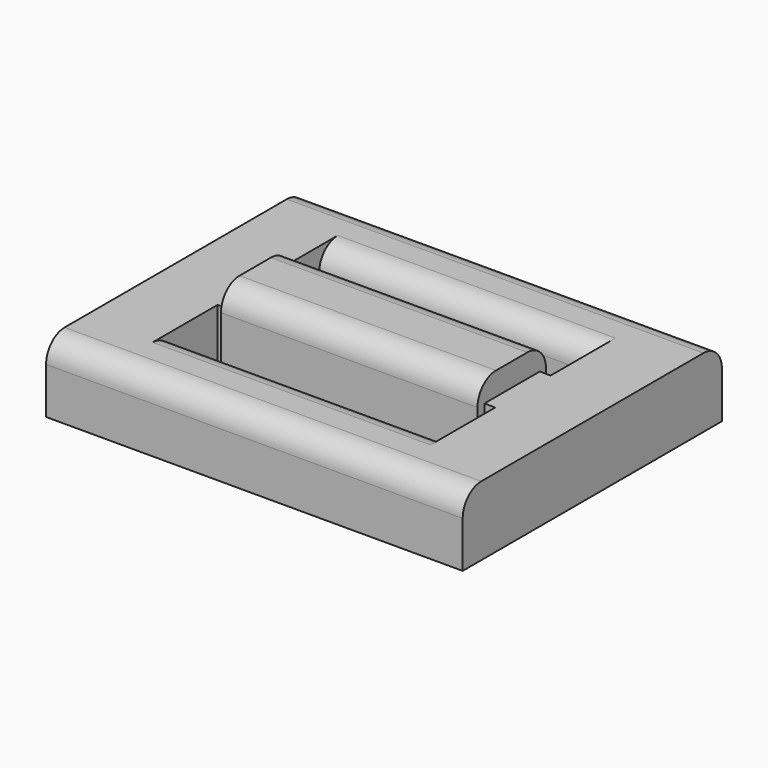
from build123d import *

# Parameters (mm, degrees)
F0_W     = 18
F0_H     = 14
F3_DEPTH = 3
F1_W     = 12.000005
F1_H     = 2.5
F4_DEPTH = 25
F2_W     = 11.083636
F2_H     = 3.694546
F5_DEPTH = 4
F6_R     = 1


with BuildPart() as f3:
    # F0 (on Top) → F3 (new body)
    with BuildSketch(Plane.XY):
        with Locations((9, -7)):
            Rectangle(F0_W, F0_H)
    extrude(amount=F3_DEPTH)

    # F1 (on face) → F4 (cut)
    with BuildSketch(Plane.XY):
        with Locations((9.000003, -4.25)):
            Rectangle(F1_W, F1_H)
        with Locations((9.000003, -9.742595)):
            Rectangle(F1_W, F1_H)
    extrude(amount=F4_DEPTH, mode=Mode.SUBTRACT)

    # F2 (on face) → F5 (join)
    with BuildSketch(Plane.XY):
        with Locations((8.988467, -7.016157)):
            Rectangle(F2_W, F2_H)
    extrude(amount=F5_DEPTH)

    # F6
    f6_edges = [f3.edges().sort_by_distance(p)[0] for p in [
        (8.988467, -8.86343, 4),
        (8.988467, -5.168884, 4),
        (9.000002, -3, 3),
        (9.000002, -10.992595, 3),
        (9, -14, 3),
        (9, 0, 3),
    ]]
    fillet(f6_edges, radius=F6_R)


solid = f3.part
